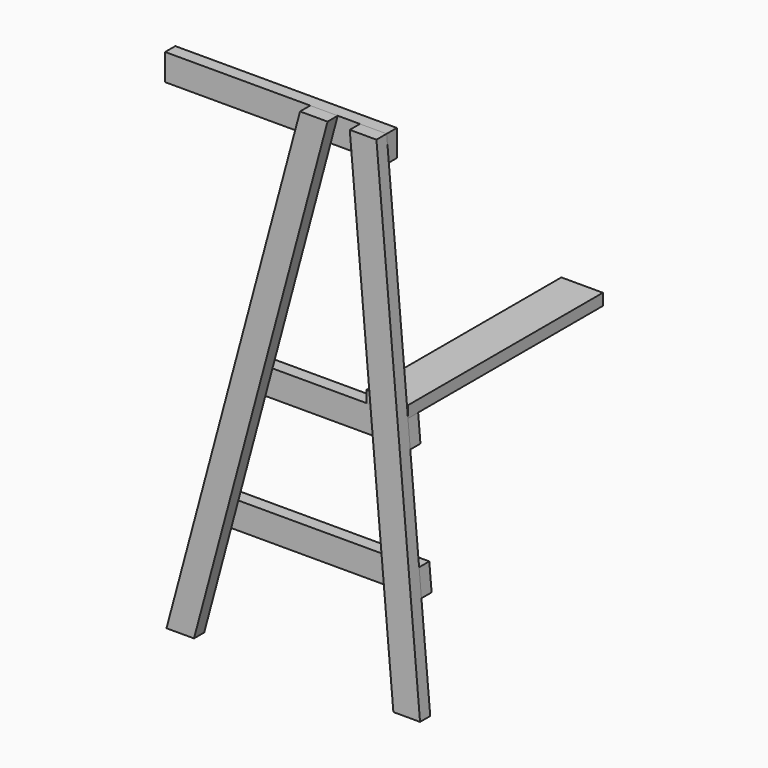
from build123d import *

# Parameters (mm, degrees)
F1_DEPTH = 2.3
F2_W     = 40
F2_H     = 4.8
F3_DEPTH = 2.3
F4_W     = 7.5
F4_H     = 2.1
F5_DEPTH = 44
F6_W     = 2.3
F6_H     = 4.8
F7_DEPTH = 39.4


with BuildPart() as f1:
    # F0 (on Front) → F1 (new body)
    with BuildSketch(Plane.XZ):
        Polygon((2.12602, 90), (10, 0), (14.818335, 0), (6.944356, 90), align=None)
        Polygon((-30.969326, 0), (-26, 0), (-1.884573, 90), (-6.853898, 90), align=None)
    extrude(amount=F1_DEPTH)


with BuildPart() as f3:
    # F2 (on face) → F3 (new body)
    with BuildSketch(Plane(origin=(0, 0, 0), x_dir=(-1, 0, 0), z_dir=(0, 1, 0))):
        Polygon((-12.806096, 23), (-13.226042, 18.2), (26.09265, 18.2), (24.806494, 23), align=None)
        Polygon((-10.793857, 46), (-11.213802, 41.2), (19.929819, 41.2), (18.643663, 46), align=None)
        with Locations((13.055644, 87.6)):
            Rectangle(F2_W, F2_H)
    extrude(amount=F3_DEPTH)


with BuildPart() as f5:
    # F4 (on face) → F5 (new body)
    with BuildSketch(Plane(origin=(0, 0, 0), x_dir=(-1, 0, 0), z_dir=(0, 1, 0))):
        with Locations((-7.043857, 47.05)):
            Rectangle(F4_W, F4_H)
    extrude(amount=F5_DEPTH)


with BuildPart() as f7:
    # F6 (on face) → F7 (new body)
    with BuildSketch(Plane(origin=(0, 2.3, 0), x_dir=(-1, 0, 0), z_dir=(0, 1, 0))):
        with Locations((-3.62554, 43.6)):
            Rectangle(F6_W, F6_H)
    extrude(amount=F7_DEPTH)


solid = Compound([f1.part, f3.part, f5.part, f7.part])
